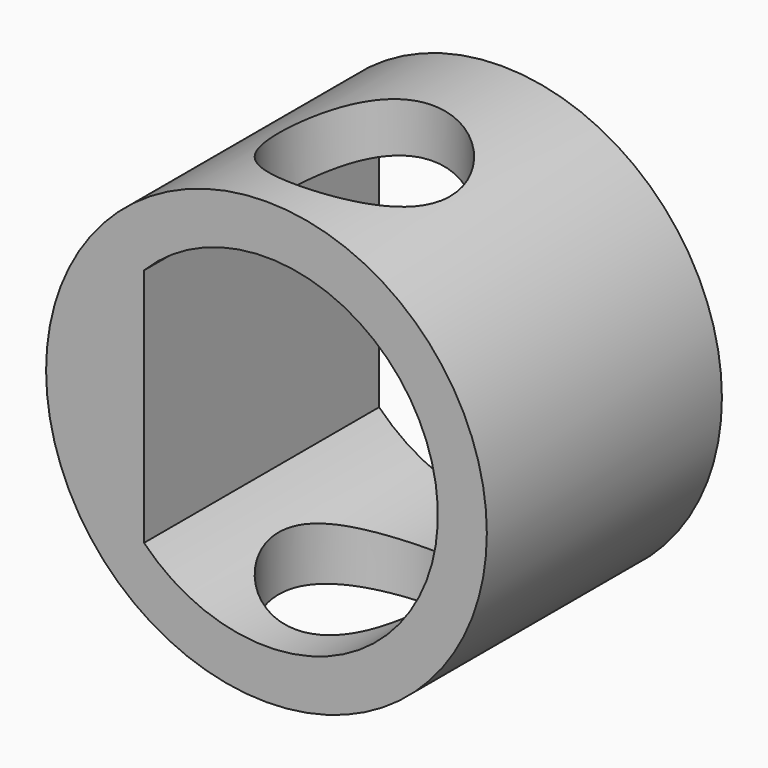
from build123d import *

# Parameters (mm, degrees)
F0_R          = 5.715
F1_DEPTH      = 7.62
F2_R          = 2.2225
F3_DEPTH      = 5.716
F3_DEPTH_BACK = 5.716


with BuildPart() as f1:
    # F0 (on Front) → F1 (new body)
    with BuildSketch(Plane.XZ):
        Circle(F0_R)
        with BuildLine():
            ThreePointArc((-3.175, 3.1108519733), (4.445, 0), (-3.175, -3.1108519733))
            Line((-3.175, -3.1108519733), (-3.175, 3.1108519733))
        make_face(mode=Mode.SUBTRACT)
    extrude(amount=F1_DEPTH)

    # F2 (on Top) → F3 (cut, two sides)
    with BuildSketch(Plane.XY) as f3_sk:
        with Locations((0, -4.445)):
            Circle(F2_R)
    extrude(amount=-F3_DEPTH, mode=Mode.SUBTRACT)
    extrude(f3_sk.sketch, amount=F3_DEPTH_BACK, mode=Mode.SUBTRACT)


solid = f1.part
